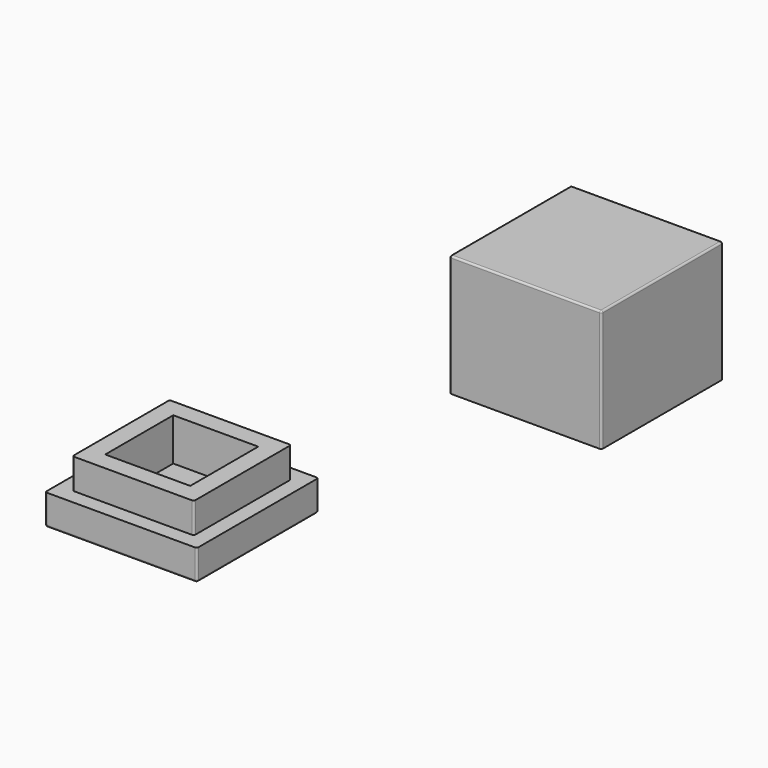
from build123d import *

# Parameters (mm, degrees)
F0_W     = 31.75
F0_H     = 31.75
F1_DEPTH = 25.4
F2_R     = 0.381
F3_W     = 31.75
F3_H     = 31.75
F4_DEPTH = 6.35
F5_R     = 0.381
F6_T     = -3.175
F7_W     = 25.4
F7_H     = 25.4
F8_DEPTH = 6.35
F9_R     = 0.4064
F10_T    = -3.81


with BuildPart() as f1:
    # F0 (on Top) → F1 (new body)
    with BuildSketch(Plane.XY):
        with Locations((15.875, -15.875)):
            Rectangle(F0_W, F0_H)
    extrude(amount=F1_DEPTH)

    # F2
    f2_edges = [f1.edges().sort_by_distance(p)[0] for p in [
        (31.75, 0, 12.7),
        (15.875, 0, 25.4),
        (31.75, -15.875, 25.4),
        (15.875, -31.75, 25.4),
        (0, -15.875, 25.4),
        (0, 0, 12.7),
        (0, -31.75, 12.7),
        (31.75, -31.75, 12.7),
    ]]
    fillet(f2_edges, radius=F2_R)

    # F6
    f6_openings = [f1.faces().sort_by_distance(p)[0] for p in [
        (15.875, -15.875, 0),
    ]]
    offset(amount=F6_T, openings=f6_openings)


with BuildPart() as f4:
    # F3 (on Top) → F4 (new body)
    with BuildSketch(Plane.XY):
        with Locations((-13.9218131438, -84.400658071)):
            Rectangle(F3_W, F3_H)
    extrude(amount=-F4_DEPTH)

    # F5
    f5_edges = [f4.edges().sort_by_distance(p)[0] for p in [
        (1.953187, -100.275658, -3.175),
        (-29.796813, -100.275658, -3.175),
        (-13.921813, -100.275658, -6.35),
        (-29.796813, -84.400658, -6.35),
        (-13.921813, -68.525658, -6.35),
        (-29.796813, -68.525658, -3.175),
        (1.953187, -68.525658, -3.175),
        (1.953187, -84.400658, -6.35),
    ]]
    fillet(f5_edges, radius=F5_R)

    # F7 (on face) → F8 (join)
    with BuildSketch(Plane.XY):
        with Locations((-13.9218131438, -84.400658071)):
            Rectangle(F7_W, F7_H)
    extrude(amount=F8_DEPTH)

    # F9
    f9_edges = [f4.edges().sort_by_distance(p)[0] for p in [
        (-26.621813, -71.700658, 3.175),
        (-26.621813, -97.100658, 3.175),
        (-1.221813, -97.100658, 3.175),
        (-1.221813, -71.700658, 3.175),
    ]]
    fillet(f9_edges, radius=F9_R)

    # F10
    f10_openings = [f4.faces().sort_by_distance(p)[0] for p in [
        (-13.921813, -84.400658, 6.35),
    ]]
    offset(amount=F10_T, openings=f10_openings, kind=Kind.INTERSECTION)


solid = Compound([f1.part, f4.part])
